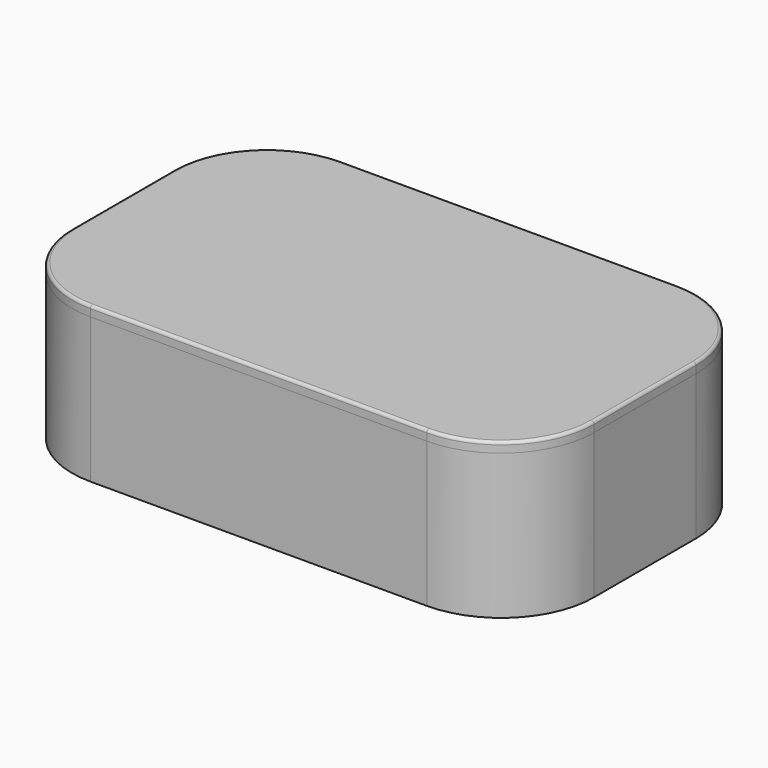
from build123d import *

# Parameters (mm, degrees)
F0_W     = 90
F0_H     = 54
F1_DEPTH = 25
F2_R     = 16
F3_T     = -1.75
F5_DEPTH = 1.75
F6_DEPTH = 1.75
F7_R     = 0.5


with BuildPart() as f1:
    # F0 (on Top) → F1 (new body)
    with BuildSketch(Plane.XY):
        Rectangle(F0_W, F0_H)
    extrude(amount=F1_DEPTH)

    # F2
    f2_edges = [f1.edges().sort_by_distance(p)[0] for p in [
        (-45, -27, 12.5),
        (45, -27, 12.5),
        (45, 27, 12.5),
        (-45, 27, 12.5),
    ]]
    fillet(f2_edges, radius=F2_R)

    # F3
    f3_openings = [f1.faces().sort_by_distance(p)[0] for p in [
        (0, 0, 25),
    ]]
    offset(amount=F3_T, openings=f3_openings)


with BuildPart() as f5:
    # F4 (on face) → F5 (new body)
    with BuildSketch(Plane.XY.offset(25)):
        with BuildLine():
            Line((-43.25, 11), (-43.25, -11))
            ThreePointArc((-43.25, -11), (-39.0762716319, -21.0762716319), (-29, -25.25))
            Line((-29, -25.25), (29, -25.25))
            ThreePointArc((29, -25.25), (39.0762716319, -21.0762716319), (43.25, -11))
            Line((43.25, -11), (43.25, 11))
            ThreePointArc((43.25, 11), (39.0762716319, 21.0762716319), (29, 25.25))
            Line((29, 25.25), (-29, 25.25))
            ThreePointArc((-29, 25.25), (-39.0762716319, 21.0762716319), (-43.25, 11))
        make_face()
    extrude(amount=-F5_DEPTH)

    # F4 (on face) → F6 (join)
    with BuildSketch(Plane.XY.offset(25)):
        with BuildLine():
            Line((-29, -27), (29, -27))
            ThreePointArc((29, -27), (40.313708499, -22.313708499), (45, -11))
            Line((45, -11), (45, 11))
            ThreePointArc((45, 11), (40.313708499, 22.313708499), (29, 27))
            Line((29, 27), (-29, 27))
            ThreePointArc((-29, 27), (-40.313708499, 22.313708499), (-45, 11))
            Line((-45, 11), (-45, -11))
            ThreePointArc((-45, -11), (-40.313708499, -22.313708499), (-29, -27))
        make_face()
        with BuildLine():
            ThreePointArc((-29, -25.25), (-39.0762716319, -21.0762716319), (-43.25, -11))
            Line((-43.25, -11), (-43.25, 11))
            ThreePointArc((-43.25, 11), (-39.0762716319, 21.0762716319), (-29, 25.25))
            Line((-29, 25.25), (29, 25.25))
            ThreePointArc((29, 25.25), (39.0762716319, 21.0762716319), (43.25, 11))
            Line((43.25, 11), (43.25, -11))
            ThreePointArc((43.25, -11), (39.0762716319, -21.0762716319), (29, -25.25))
            Line((29, -25.25), (-29, -25.25))
        make_face(mode=Mode.SUBTRACT)
        with BuildLine():
            Line((-43.25, 11), (-43.25, -11))
            ThreePointArc((-43.25, -11), (-39.0762716319, -21.0762716319), (-29, -25.25))
            Line((-29, -25.25), (29, -25.25))
            ThreePointArc((29, -25.25), (39.0762716319, -21.0762716319), (43.25, -11))
            Line((43.25, -11), (43.25, 11))
            ThreePointArc((43.25, 11), (39.0762716319, 21.0762716319), (29, 25.25))
            Line((29, 25.25), (-29, 25.25))
            ThreePointArc((-29, 25.25), (-39.0762716319, 21.0762716319), (-43.25, 11))
        make_face()
    extrude(amount=F6_DEPTH)

    # F7
    f7_edges = [f5.edges().sort_by_distance(p)[0] for p in [
        (0, -27, 26.75),
        (40.313708, -22.313708, 26.75),
        (45, 0, 26.75),
        (40.313708, 22.313708, 26.75),
        (0, 27, 26.75),
        (-40.313708, 22.313708, 26.75),
        (-45, 0, 26.75),
        (-40.313708, -22.313708, 26.75),
    ]]
    fillet(f7_edges, radius=F7_R)


solid = Compound([f1.part, f5.part])
